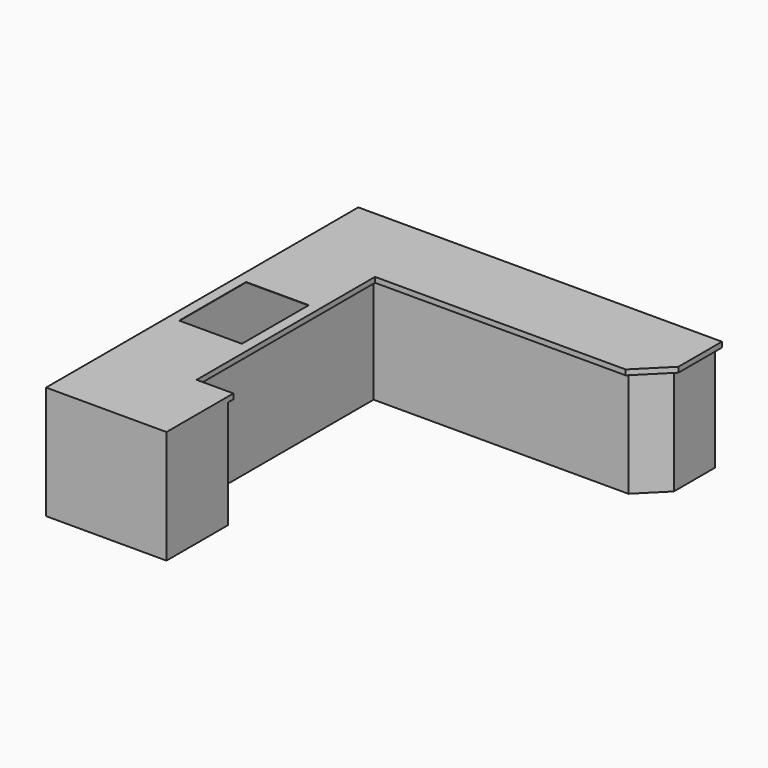
from build123d import *

# Parameters (mm, degrees)
F1_DEPTH = 38.1
F3_DEPTH = 787.4
F4_DEPTH = 50.8
F5_T     = -2.54
F6_W     = 457.2
F6_H     = 609.6
F7_DEPTH = 304.8


with BuildPart() as f1:
    # F0 (on Top) → F1 (new body)
    with BuildSketch(Plane.XY):
        Polygon((0, 2844.8), (0, 0), (877.83924, 0), (877.83924, 609.6), (609.6, 609.6), (609.6, 2235.2), (2436.8125, 2235.2), (2650.75162, 2449.13912), (2650.75162, 2844.8), align=None)
    extrude(amount=F1_DEPTH)

    # F2 (on face) → F3 (join)
    with BuildSketch(Plane(origin=(0, 0, 0), x_dir=(1, 0, 0), z_dir=(0, 0, -1))):
        Polygon((558.8, -2286), (558.8, -558.8), (827.03924, -558.8), (827.03924, 0), (0, 0), (0, -2844.8), (2599.95162, -2844.8), (2599.95162, -2470.1811689686), (2415.7704510314, -2286), align=None)
    extrude(amount=F3_DEPTH)

    # F4 (add): a face of the model
    f4_faces = [f1.faces().sort_by_distance(p)[0] for p in [
        (827.03924, 279.4, -393.7),
    ]]
    extrude(f4_faces, amount=F4_DEPTH)

    # F5
    f5_openings = [f1.faces().sort_by_distance(p)[0] for p in [
        (520.260883, 1422.4, -787.4),
    ]]
    offset(amount=F5_T, openings=f5_openings, kind=Kind.INTERSECTION)

    # F6 (on face) → F7 (cut)
    with BuildSketch(Plane.XY.offset(38.1)):
        with Locations((304.8, 1422.4)):
            Rectangle(F6_W, F6_H)
    extrude(amount=-F7_DEPTH, mode=Mode.SUBTRACT)


solid = f1.part
